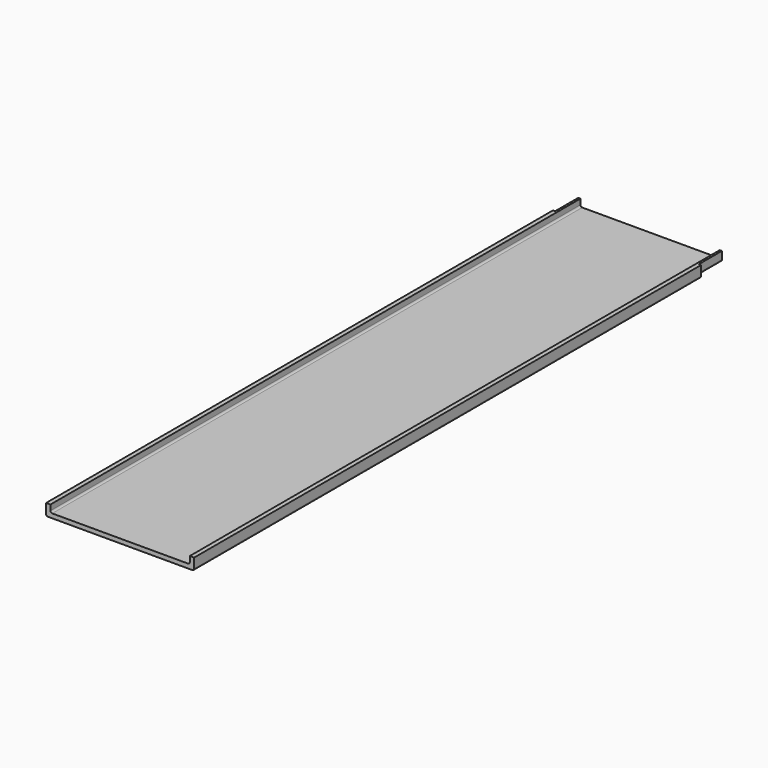
from build123d import *

# Parameters (mm, degrees)
F1_DEPTH = 917.5
F2_DEPTH = 40


with BuildPart() as f1:
    # F0 (on Front) → F1 (new body)
    with BuildSketch(Plane.XZ):
        with BuildLine():
            ThreePointArc((-102.5, -13.5), (-101.767767, -15.267767), (-100, -16))
            Line((-100, -16), (100, -16))
            ThreePointArc((100, -16), (101.767767, -15.267767), (102.5, -13.5))
            Line((102.5, -13.5), (102.5, 0))
            Line((102.5, 0), (99.5, 0))
            Line((99.5, 0), (99.5, -10.5))
            ThreePointArc((99.5, -10.5), (98.767767, -12.267767), (97, -13))
            Line((97, -13), (-97, -13))
            ThreePointArc((-97, -13), (-98.767767, -12.267767), (-99.5, -10.5))
            Line((-99.5, -10.5), (-99.5, 0))
            Line((-99.5, 0), (-102.5, 0))
            Line((-102.5, 0), (-102.5, -13.5))
        make_face()
        with BuildLine():
            Line((-96.5, 0), (-99.5, 0))
            Line((-99.5, 0), (-99.5, -10.5))
            ThreePointArc((-99.5, -10.5), (-98.767767, -12.267767), (-97, -13))
            Line((-97, -13), (97, -13))
            ThreePointArc((97, -13), (98.767767, -12.267767), (99.5, -10.5))
            Line((99.5, -10.5), (99.5, 0))
            Line((99.5, 0), (96.5, 0))
            Line((96.5, 0), (96.5, -7.5))
            ThreePointArc((96.5, -7.5), (95.767767, -9.267767), (94, -10))
            Line((94, -10), (-94, -10))
            ThreePointArc((-94, -10), (-95.767767, -9.267767), (-96.5, -7.5))
            Line((-96.5, -7.5), (-96.5, 0))
        make_face()
    extrude(amount=F1_DEPTH)

    # F0 (on Front) → F2 (cut)
    with BuildSketch(Plane.XZ):
        with BuildLine():
            ThreePointArc((-102.5, -13.5), (-101.767767, -15.267767), (-100, -16))
            Line((-100, -16), (100, -16))
            ThreePointArc((100, -16), (101.767767, -15.267767), (102.5, -13.5))
            Line((102.5, -13.5), (102.5, 0))
            Line((102.5, 0), (99.5, 0))
            Line((99.5, 0), (99.5, -10.5))
            ThreePointArc((99.5, -10.5), (98.767767, -12.267767), (97, -13))
            Line((97, -13), (-97, -13))
            ThreePointArc((-97, -13), (-98.767767, -12.267767), (-99.5, -10.5))
            Line((-99.5, -10.5), (-99.5, 0))
            Line((-99.5, 0), (-102.5, 0))
            Line((-102.5, 0), (-102.5, -13.5))
        make_face()
    extrude(amount=F2_DEPTH, mode=Mode.SUBTRACT)


solid = f1.part
